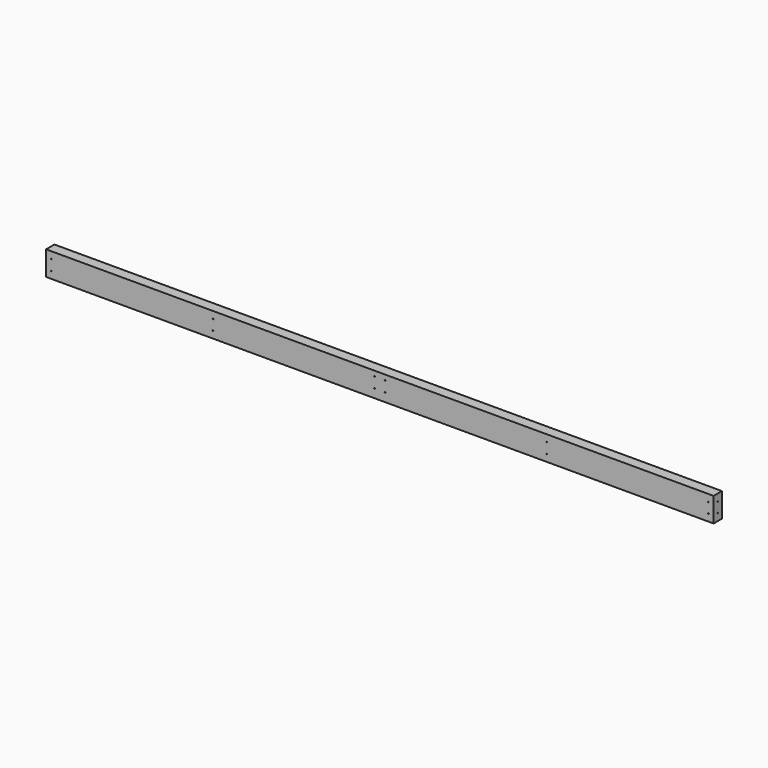
from build123d import *

# Parameters (mm, degrees)
F0_W     = 2438.4
F0_H     = 88.9
F1_DEPTH = 38.1
F3_D     = 3.175
F5_D     = 3.175


with BuildPart() as f1:
    # F0 (on Front) → F1 (new body)
    with BuildSketch(Plane.XZ):
        with Locations((1106.49364, 64.286581)):
            Rectangle(F0_W, F0_H)
    extrude(amount=F1_DEPTH)

    # F3 (through all)
    with Locations(Plane.XZ.offset(38.1)):
        with Locations((-93.65636, 83.336581), (-93.65636, 45.236581), (496.89364, 83.336581), (496.89364, 45.236581), (1087.44364, 89.686581), (1125.54364, 89.686581), (1087.44364, 51.586581), (1125.54364, 51.586581), (1716.09364, 83.336581), (1716.09364, 45.236581), (2306.64364, 83.336581), (2306.64364, 45.236581)):
            Hole(F3_D / 2)

    # F5 (through all)
    with Locations(Plane(origin=(-112.70636, 0, 0), x_dir=(0, -1, 0), z_dir=(-1, 0, 0))):
        with Locations((19.05, 83.336581), (19.05, 45.236581)):
            Hole(F5_D / 2)


solid = f1.part
